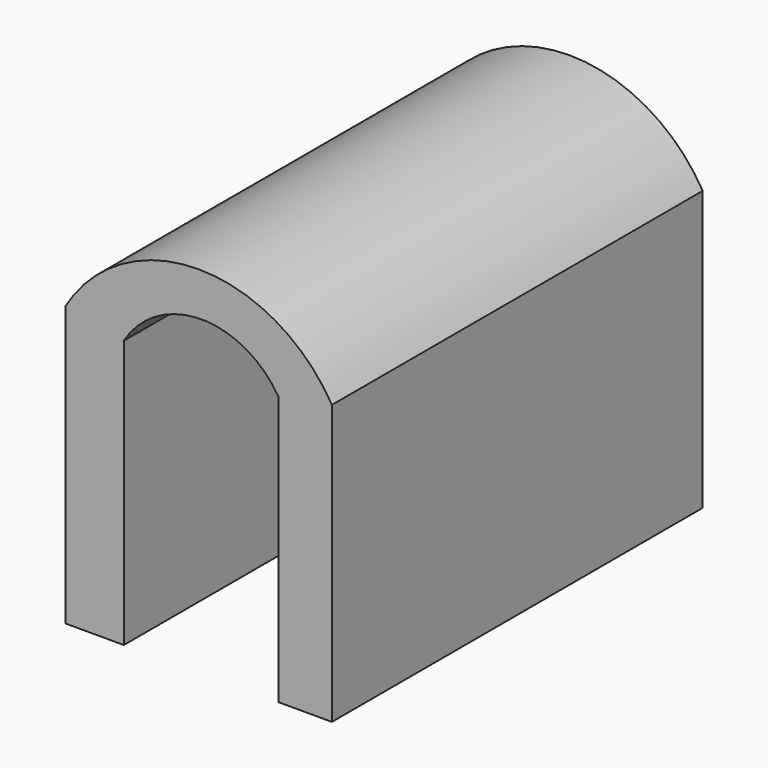
from build123d import *

# Parameters (mm, degrees)
F1_DEPTH = 150
F2_DEPTH = 150


with BuildPart() as f1:
    # F0 (on Front) → F1 (new body)
    with BuildSketch(Plane.XZ):
        with BuildLine():
            ThreePointArc((0, -14.516129), (-86.290326, 34.729348), (-172.580651, -14.516129))
            Line((-172.580651, -14.516129), (-172.580651, -195.161294))
            Line((-172.580651, -195.161294), (-134.677419, -195.161294))
            Line((-134.677419, -195.161294), (-134.677419, -21.774195))
            ThreePointArc((-134.677419, -21.774195), (-84.904325, 6.765407), (-34.677419, -20.967743))
            Line((-34.677419, -20.967743), (-34.677419, -195.161294))
            Line((-34.677419, -195.161294), (0, -195.161294))
            Line((0, -195.161294), (0, -14.516129))
        make_face()
        with BuildLine():
            ThreePointArc((0, -14.516129), (-86.290326, 34.729348), (-172.580651, -14.516129))
            Line((-172.580651, -14.516129), (-172.580651, -195.161294))
            Line((-172.580651, -195.161294), (-134.677419, -195.161294))
            Line((-134.677419, -195.161294), (-134.677419, -21.774195))
            ThreePointArc((-134.677419, -21.774195), (-84.904325, 6.765407), (-34.677419, -20.967743))
            Line((-34.677419, -20.967743), (-34.677419, -195.161294))
            Line((-34.677419, -195.161294), (0, -195.161294))
            Line((0, -195.161294), (0, -14.516129))
        make_face()
    extrude(amount=F1_DEPTH)

    # F0 (on Front) + F1_face (on face) → F2 (join)
    with BuildSketch(Plane.XZ):
        with BuildLine():
            ThreePointArc((0, -14.516129), (-86.290326, 34.729348), (-172.580651, -14.516129))
            Line((-172.580651, -14.516129), (-172.580651, -195.161294))
            Line((-172.580651, -195.161294), (-134.677419, -195.161294))
            Line((-134.677419, -195.161294), (-134.677419, -21.774195))
            ThreePointArc((-134.677419, -21.774195), (-84.904325, 6.765407), (-34.677419, -20.967743))
            Line((-34.677419, -20.967743), (-34.677419, -195.161294))
            Line((-34.677419, -195.161294), (0, -195.161294))
            Line((0, -195.161294), (0, -14.516129))
        make_face()
    with BuildSketch(Plane(origin=(-88.070113, 0, -74.786609), x_dir=(1, 0, 0), z_dir=(0, 1, 0))):
        with BuildLine():
            ThreePointArc((-84.510538, -60.27048), (1.779787, -109.515957), (88.070113, -60.27048))
            Line((88.070113, -60.27048), (88.070113, 120.374685))
            Line((88.070113, 120.374685), (53.392694, 120.374685))
            Line((53.392694, 120.374685), (53.392694, -53.818866))
            ThreePointArc((53.392694, -53.818866), (3.165788, -81.552016), (-46.607306, -53.012414))
            Line((-46.607306, -53.012414), (-46.607306, 120.374685))
            Line((-46.607306, 120.374685), (-84.510538, 120.374685))
            Line((-84.510538, 120.374685), (-84.510538, -60.27048))
        make_face()
    extrude(amount=-F2_DEPTH)


solid = f1.part
